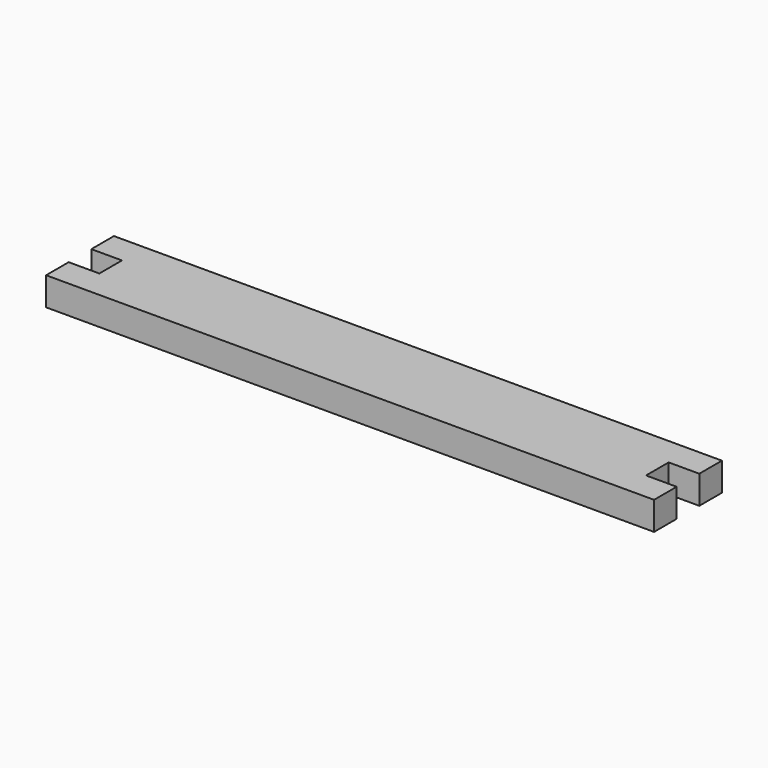
from build123d import *

# Parameters (mm, degrees)
F0_W     = 409.575
F0_H     = 57.15
F1_DEPTH = 9.525
F2_W     = 20.6375
F2_H     = 19.05
F3_DEPTH = 19.051


with BuildPart() as f1:
    # F0 (on Top) → F1 (new body, symmetric)
    with BuildSketch(Plane.XY):
        Rectangle(F0_W, F0_H)
    extrude(amount=F1_DEPTH, both=True)

    # F2 (on face) → F3 (cut, through all)
    with BuildSketch(Plane.XY.offset(9.525)):
        with Locations((-194.46875, 0)):
            Rectangle(F2_W, F2_H)
        with Locations((194.46875, 0)):
            Rectangle(F2_W, F2_H)
    extrude(amount=-F3_DEPTH, mode=Mode.SUBTRACT)


solid = f1.part
